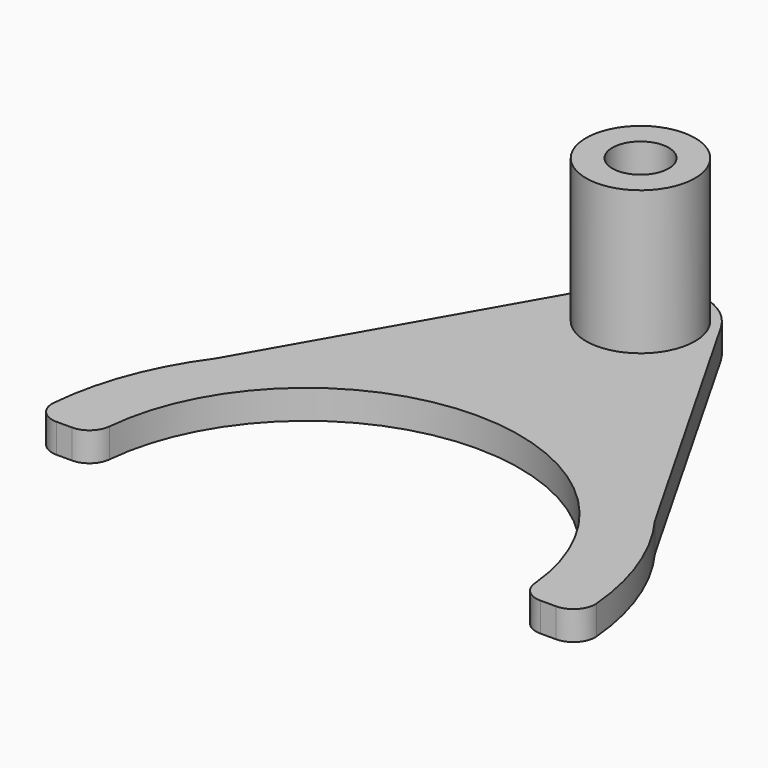
from build123d import *

# Parameters (mm, degrees)
CYLINDER044_R          = 1.55
CYLINDER044_DEPTH      = 10
CYLINDER042_R          = 3
CYLINDER042_DEPTH      = 10
CYLINDER043_R          = 3.5
CYLINDER043_DEPTH      = 1.6
BOX_W                  = 7
BOX_H                  = 11
BOX_DEPTH              = 1.6
BOX001_W               = 2
BOX001_H               = 21.6
BOX001_DEPTH           = 1.6
BOX001_PLACEMENT_ANGLE = 29.7
BOX002_W               = 2
BOX002_H               = 21.6
BOX002_DEPTH           = 1.6
BOX002_PLACEMENT_ANGLE = 29.7
BOX004_W               = 15
BOX004_H               = 4.55
BOX004_DEPTH           = 1.6
BOX003_W               = 11
BOX003_H               = 4
BOX003_DEPTH           = 1.6
CYLINDER040_W          = 11.75
CYLINDER040_H          = 1.6
CYLINDER040_ANGLE      = 180
CYLINDER039_W          = 15
CYLINDER039_H          = 1.6
CYLINDER039_ANGLE      = 180
FILLET006_R            = 1.2


with BuildPart() as cylinder044:
    # Cylinder044 → Cylinder044 (new body)
    with BuildSketch(Plane(origin=(0, 23, -0.5), x_dir=(1, 0, 0), z_dir=(0, 0, 1))):
        Circle(CYLINDER044_R)
    extrude(amount=CYLINDER044_DEPTH)


with BuildPart() as cylinder042:
    # Cylinder042 → Cylinder042 (new body)
    with BuildSketch(Plane(origin=(0, 23, -0.5), x_dir=(1, 0, 0), z_dir=(0, 0, 1))):
        Circle(CYLINDER042_R)
    extrude(amount=CYLINDER042_DEPTH)


with BuildPart() as cylinder043:
    # Cylinder043 → Cylinder043 (new body)
    with BuildSketch(Plane(origin=(0, 23, 0), x_dir=(1, 0, 0), z_dir=(0, 0, 1))):
        Circle(CYLINDER043_R)
    extrude(amount=CYLINDER043_DEPTH)


with BuildPart() as cube:
    # Box → Box (new body)
    with BuildSketch(Plane(origin=(-3.5, 12, 0), x_dir=(1, 0, 0), z_dir=(0, 0, 1))):
        with Locations((3.5, 5.5)):
            Rectangle(BOX_W, BOX_H)
    extrude(amount=BOX_DEPTH)


with BuildPart() as cube001:
    # Box001 → Box001 (new body)
    with BuildSketch(Plane.XY):
        with Locations((1, 10.8)):
            Rectangle(BOX001_W, BOX001_H)
    extrude(amount=BOX001_DEPTH)


with BuildPart() as cube001_1:
    # Box001 placement: moved
    add(cube001.part.moved(Location((12, 5, 0))).rotate(Axis((12, 5, 0), (0, 0, 1)), BOX001_PLACEMENT_ANGLE))


with BuildPart() as cube002:
    # Box002 → Box002 (new body)
    with BuildSketch(Plane.XY):
        with Locations((1, 10.8)):
            Rectangle(BOX002_W, BOX002_H)
    extrude(amount=BOX002_DEPTH)


with BuildPart() as cube002_1:
    # Box002 placement: moved
    add(cube002.part.moved(Location((12, 5, 0))).rotate(Axis((12, 5, 0), (0, 0, 1)), BOX002_PLACEMENT_ANGLE))


with BuildPart() as part_mirroring:
    # Part__Mirroring: instance of Cube002
    add(cube002_1.part.mirror(Plane(origin=(0, 0, 0), x_dir=(0, -1, 0), z_dir=(1, 0, 0))))


with BuildPart() as cube004:
    # Box004 → Box004 (new body)
    with BuildSketch(Plane(origin=(-7.5, 12, 0), x_dir=(1, 0, 0), z_dir=(0, 0, 1))):
        with Locations((7.5, 2.275)):
            Rectangle(BOX004_W, BOX004_H)
    extrude(amount=BOX004_DEPTH)


with BuildPart() as cube003:
    # Box003 → Box003 (new body)
    with BuildSketch(Plane(origin=(-5.5, 16, 0), x_dir=(1, 0, 0), z_dir=(0, 0, 1))):
        with Locations((5.5, 2)):
            Rectangle(BOX003_W, BOX003_H)
    extrude(amount=BOX003_DEPTH)


with BuildPart() as cylinder040:
    # Cylinder040 → Cylinder040 (revolve)
    with BuildSketch(Plane.XZ):
        with Locations((5.875, 0.8)):
            Rectangle(CYLINDER040_W, CYLINDER040_H)
    revolve(axis=Axis((0, 0, 0), (0, 0, 1)), revolution_arc=CYLINDER040_ANGLE)


with BuildPart() as fillet006:
    # Cylinder039 → Cylinder039 (revolve)
    with BuildSketch(Plane.XZ):
        with Locations((7.5, 0.8)):
            Rectangle(CYLINDER039_W, CYLINDER039_H)
    revolve(axis=Axis((0, 0, 0), (0, 0, 1)), revolution_arc=CYLINDER039_ANGLE)

    # Cut017: cut Cylinder040
    add(cylinder040.part, mode=Mode.SUBTRACT)

    # Fusion012: union Cylinder043, Cube, Cube001, Part__Mirroring, Cube004, Cube003
    add(cylinder043.part)
    add(cube.part)
    add(cube001_1.part)
    add(part_mirroring.part)
    add(cube004.part)
    add(cube003.part)

    # Fusion013: union Cylinder042
    add(cylinder042.part)

    # Cut018: cut Cylinder044
    add(cylinder044.part, mode=Mode.SUBTRACT)

    # Fillet006
    fillet006_edges = [fillet006.edges().sort_by_distance(p)[0] for p in [
        (-15, 0, 0.8),
        (-11.75, 0, 0.8),
        (11.75, 0, 0.8),
        (15, 0, 0.8),
    ]]
    fillet(fillet006_edges, radius=FILLET006_R)


with BuildPart() as fillet006_1:
    # Fillet006 placement: moved
    add(fillet006.part.moved(Location((0, 0, 2.25))))


solid = fillet006_1.part
